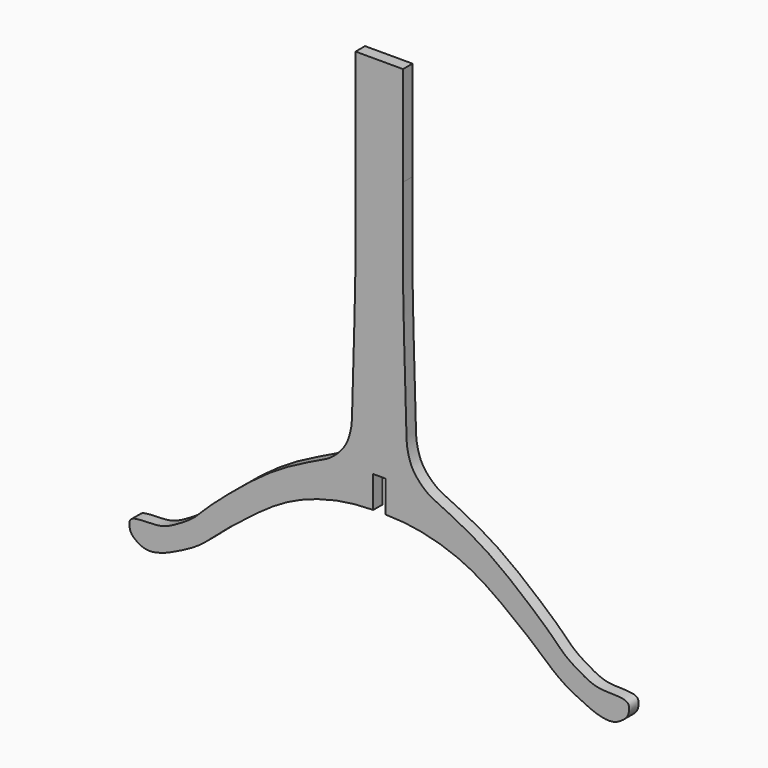
from build123d import *

# Parameters (mm, degrees)
F1_DEPTH = 19.05


with BuildPart() as f1:
    # F0 (on Front) → F1 (new body)
    with BuildSketch(Plane.XZ):
        with BuildLine():
            add(Edge.make_bspline(
                [(8.8008718463, -452.4153149585), (-8.2012996591, -452.6365313023), (-50.0417860207, -455.5411443555), (-117.7136130779, -477.0593679303), (-164.4311680936, -507.3718342631), (-192.4511683968, -528.4939664209), (-221.9853952176, -551.473066546), (-246.9371207321, -573.5611602866), (-272.8008122824, -596.1834349252), (-304.7640005636, -612.8431171154), (-331.8367307147, -625.268289288), (-357.7606738567, -629.327332719), (-374.4704933866, -618.1900029456), (-381.975819645, -610.4857375259), (-384.6584860388, -592.2498243039), (-370.4888804516, -587.705120135), (-348.4464710553, -587.6310547293), (-327.6970447528, -586.3596282432), (-303.9118553812, -574.0155825654), (-278.5680465787, -557.9211272046), (-262.3377603136, -539.7404735634), (-238.682034191, -518.38490845), (-201.9873477059, -486.7374295751), (-154.5832179756, -450.3659570234), (-111.9294334368, -426.6806577108), (-80.679228637, -411.5837611114), (-60.916803476, -402.5215804575), (-44.8706294427, -388.6205831488), (-33.5461408347, -372.3766215314), (-29.267971372, -359.6539015001), (-25.2814641437, -343.0385879509), (-25.2901983458, -322.553710136), (-24.1740357195, -293.2703814417), (-22.0813789836, -206.1883430198), (-19.4793451871, -151.2861507666), (-19.5865106047, -42.6142365905), (-19.647128144, 26.4480390307)],
                knots=[0.0095290203, 0.0095290203, 0.0095290203, 0.0095290203, 0.0414629403, 0.0856822636, 0.1229383563, 0.1525854642, 0.1830597034, 0.21217842, 0.2416054923, 0.2717787603, 0.2994363292, 0.3245617271, 0.3461390238, 0.3627959097, 0.3822823017, 0.3997544018, 0.4235221405, 0.4464250605, 0.4722989568, 0.4998267393, 0.5244345781, 0.5524068012, 0.5875946424, 0.6268585796, 0.6622620328, 0.6915588748, 0.714759655, 0.7377878721, 0.7599272061, 0.7782582881, 0.7987714094, 0.8208631145, 0.8484086714, 0.8943079638, 0.9327328987, 1, 1, 1, 1], degree=3))
            Line((8.8008718463, -452.4153149585), (8.8008718463, -452.3902237414))
            Line((8.8008718463, -452.3902237414), (8.8008718463, -401.5902237414))
            Line((8.8008718463, -401.5902237414), (28.1048718366, -401.5902237414))
            Line((28.1048718366, -401.5902237414), (28.1048718366, -452.3902237414))
            Line((28.1048718366, -452.3902237414), (28.1048718366, -452.4153149584))
            add(Edge.make_bspline(
                [(28.1048718366, -452.4153149584), (45.107043345, -452.6365313019), (86.9475297096, -455.5411443543), (154.6193567705, -477.0593679303), (201.3369117862, -507.3718342631), (229.3569120894, -528.4939664209), (258.8911389102, -551.473066546), (283.8428644247, -573.5611602866), (309.706555975, -596.1834349252), (341.6697442562, -612.8431171154), (368.7424744073, -625.268289288), (394.6664175493, -629.327332719), (411.3762370792, -618.1900029456), (418.8815633376, -610.4857375259), (421.5642297314, -592.2498243039), (407.3946241442, -587.705120135), (385.3522147479, -587.6310547293), (364.6027884454, -586.3596282432), (340.8175990738, -574.0155825654), (315.4737902714, -557.9211272046), (299.2435040062, -539.7404735634), (275.5877778836, -518.38490845), (238.8930913985, -486.7374295751), (191.4889616682, -450.3659570234), (148.8351771295, -426.6806577108), (117.5849723296, -411.5837611114), (97.8225471686, -402.5215804575), (81.7763731353, -388.6205831488), (70.4518845273, -372.3766215314), (66.1737150646, -359.6539015001), (62.1872078363, -343.0385879509), (62.1959420384, -322.553710136), (61.0797794121, -293.2703814417), (58.9871226762, -206.1883430198), (56.3850888798, -151.2861507666), (56.4922542973, -42.6142365905), (56.5528718366, 26.4480390307)],
                knots=[0.0095290203, 0.0095290203, 0.0095290203, 0.0095290203, 0.0414629403, 0.0856822636, 0.1229383563, 0.1525854642, 0.1830597034, 0.21217842, 0.2416054923, 0.2717787603, 0.2994363292, 0.3245617271, 0.3461390238, 0.3627959097, 0.3822823017, 0.3997544018, 0.4235221405, 0.4464250605, 0.4722989568, 0.4998267393, 0.5244345781, 0.5524068012, 0.5875946424, 0.6268585796, 0.6622620328, 0.6915588748, 0.714759655, 0.7377878721, 0.7599272061, 0.7782582881, 0.7987714094, 0.8208631145, 0.8484086714, 0.8943079638, 0.9327328987, 1, 1, 1, 1], degree=3))
            Line((56.5528718366, 26.4480390307), (56.5528718366, 186.3918390307))
            Line((56.5528718366, 186.3918390307), (-19.647128144, 186.3918390307))
            Line((-19.647128144, 186.3918390307), (-19.647128144, 26.4480390307))
        make_face()
    extrude(amount=F1_DEPTH)


solid = f1.part
